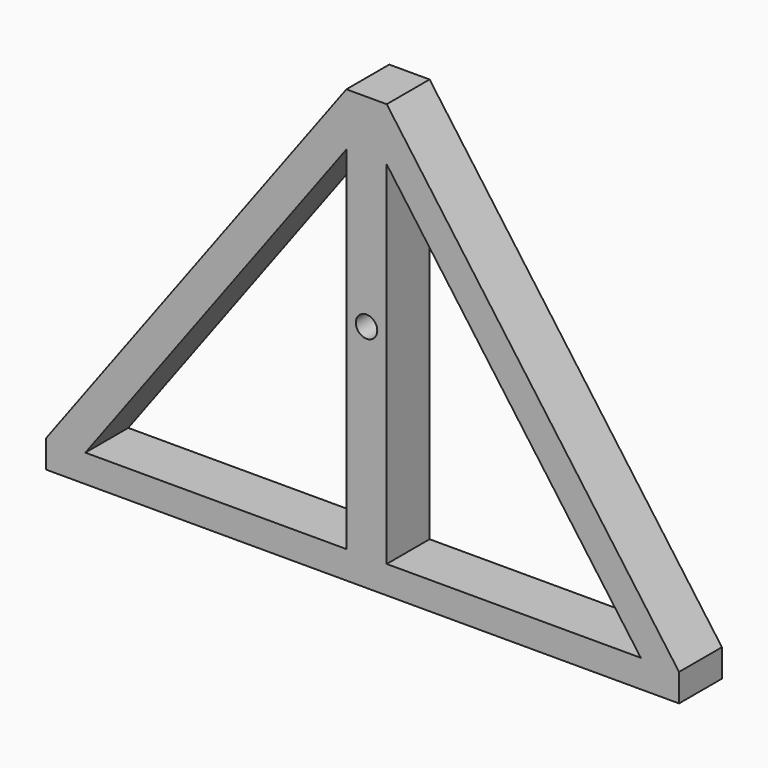
from build123d import *

# Parameters (mm, degrees)
F0_W     = 191.235094
F0_H     = 1667.330606
F0_R     = 50.7968
F0_H_2   = 250.995946
F1_DEPTH = 254


with BuildPart() as f1:
    # F0 (on Front) → F1 (new body)
    with BuildSketch(Plane.XZ):
        with Locations((0, -125.497973)):
            Rectangle(F0_W, F0_H)
        Circle(F0_R, mode=Mode.SUBTRACT)
        Polygon((1299.828879, -959.163276), (1481.107962, -959.163276), (95.617547, 959.163276), (95.617547, 708.16733), align=None)
        with Locations((0, 833.665303)):
            Rectangle(F0_W, F0_H_2)
        Polygon((-95.617547, 959.163276), (-1518.892038, -959.163276), (-1332.669246, -959.163276), (-95.617547, 708.16733), align=None)
        Polygon((-1518.892038, -959.163276), (-1518.892038, -1090.637446), (1481.107962, -1090.637446), (1481.107962, -959.163276), (1299.828879, -959.163276), (95.617547, -959.163276), (-95.617547, -959.163276), (-1332.669246, -959.163276), align=None)
    extrude(amount=F1_DEPTH)


solid = f1.part
